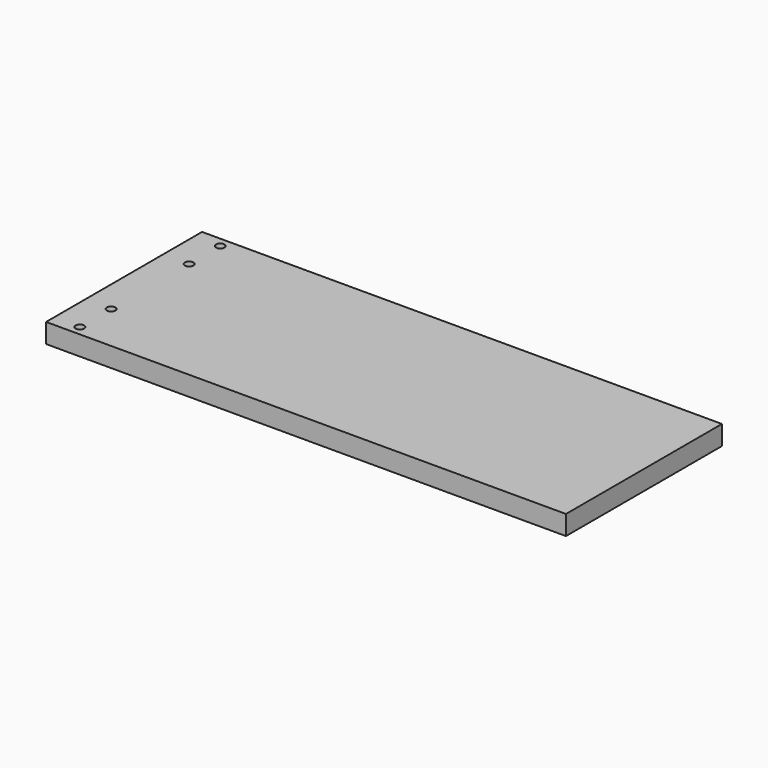
from build123d import *

# Parameters (mm, degrees)
F0_W     = 400
F0_H     = 150
F1_DEPTH = 15
F2_D     = 6.6
F4_D     = 5.5
F4_DEPTH = 20
F4_TIP   = 1.6523667023


with BuildPart() as f1:
    # F0 (on Top) → F1 (new body)
    with BuildSketch(Plane.XY):
        Rectangle(F0_W, F0_H)
    extrude(amount=F1_DEPTH)

    # F2 (through all)
    with Locations(Plane(origin=(0, 0, 0), x_dir=(1, 0, 0), z_dir=(0, 0, -1))):
        with Locations((-180, -37.5), (-180, -67.5), (-180, 37.5), (-180, 67.5)):
            Hole(F2_D / 2)

    # F4
    with Locations(Plane(origin=(-200, 0, 0), x_dir=(0, -1, 0), z_dir=(-1, 0, 0))):
        with Locations((-52.5, 7.5), (52.5, 7.5)):
            Hole(F4_D / 2, depth=F4_DEPTH)
            with Locations((0, 0, -(F4_DEPTH + F4_TIP / 2))):  # 118° drill point
                Cone(0, F4_D / 2, F4_TIP, mode=Mode.SUBTRACT)


solid = f1.part
